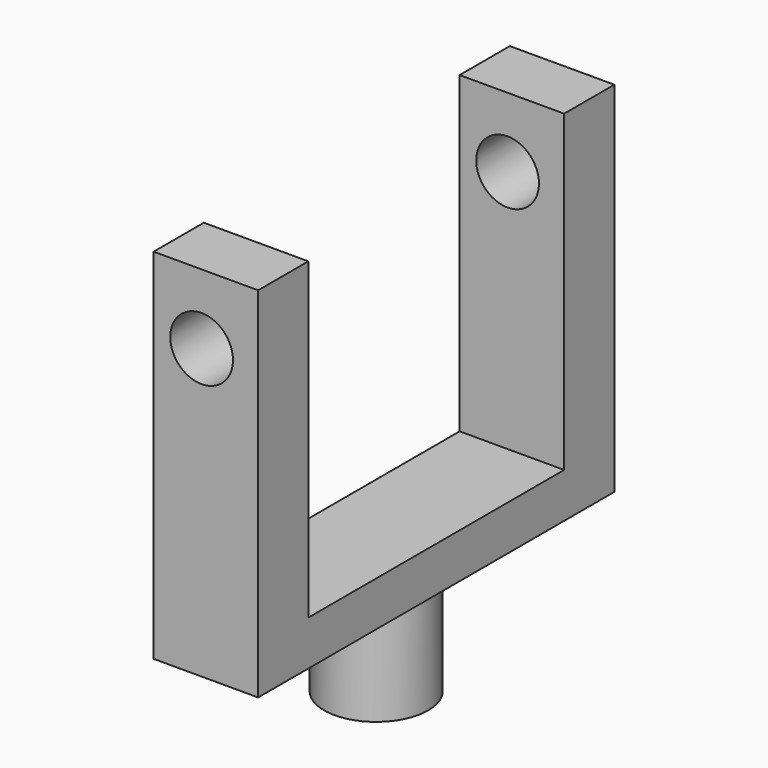
from build123d import *

# Parameters (mm, degrees)
F0_W     = 77.7157761486
F0_H     = 10.8950532058
F1_DEPTH = 25.4
F2_R     = 7.62
F3_DEPTH = 127
F4_R     = 12.6365
F5_DEPTH = 25.4


with BuildPart() as f1:
    # F0 (on Right) → F1 (new body)
    with BuildSketch(Plane.YZ):
        Polygon((-48.7912997933, 31.7609666863), (-64.0312997933, 31.7609666863), (-64.0312997933, -55.3610383549), (-48.7912997933, -55.3610383549), (-48.7912997933, -44.4659851491), align=None)
        Polygon((28.9244763553, 31.7609666863), (28.9244763553, -44.4659851491), (28.9244763553, -55.3610383549), (44.1727048095, -55.3610383549), (44.1727048095, 31.7609666863), align=None)
        with Locations((-9.933411719, -49.913511752)):
            Rectangle(F0_W, F0_H)
    extrude(amount=F1_DEPTH)

    # F2 (on face) → F3 (cut)
    with BuildSketch(Plane.XZ.offset(64.0312997933)):
        with Locations((11.656133458, 14.8219969124)):
            Circle(F2_R)
    extrude(amount=-F3_DEPTH, mode=Mode.SUBTRACT)

    # F4 (on face) → F5 (join)
    with BuildSketch(Plane(origin=(0, 0, -55.3610383549), x_dir=(1, 0, 0), z_dir=(0, 0, -1))):
        with Locations((10.7927164063, 9.9292974919)):
            Circle(F4_R)
    extrude(amount=F5_DEPTH)


solid = f1.part
